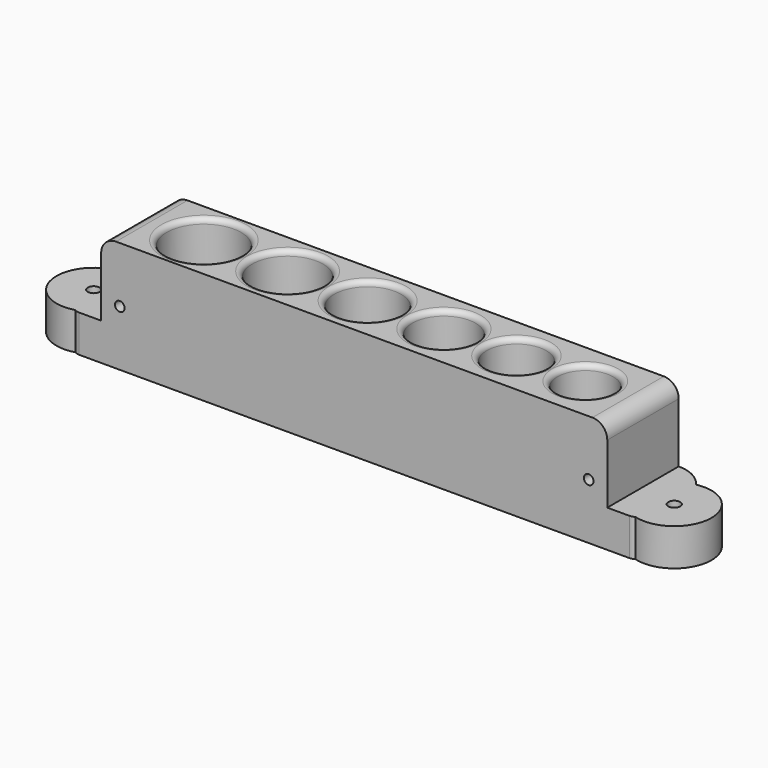
from build123d import *

# Parameters (mm, degrees)
CYLINDER016_R     = 1.3
CYLINDER016_DEPTH = 25
CYLINDER015_R     = 1.3
CYLINDER015_DEPTH = 25
CYLINDER001_R     = 9.5
CYLINDER001_DEPTH = 30
FILLET002_R       = 9.4
CYLINDER002_R     = 9
CYLINDER002_DEPTH = 30
FILLET003_R       = 8.9
CYLINDER003_R     = 8.5
CYLINDER003_DEPTH = 30
FILLET004_R       = 8.4
CYLINDER004_R     = 8
CYLINDER004_DEPTH = 30
FILLET005_R       = 7.9
CYLINDER005_R     = 7.5
CYLINDER005_DEPTH = 30
FILLET006_R       = 7.4
CYLINDER_R        = 10
CYLINDER_DEPTH    = 30
FILLET_R          = 9.9
BOX_W             = 136
BOX_H             = 24
BOX_DEPTH         = 30
FILLET022_R       = 4
FILLET023_R       = 1.4
BOX001_W          = 10
BOX001_H          = 24
BOX001_DEPTH      = 10
FILLET016_R       = 2
CHAMFER_SIZE      = 4
FILLET017_R       = 2
FILLET018_R       = 10
BOX002_W          = 10
BOX002_H          = 24
BOX002_DEPTH      = 10
FILLET019_R       = 2
CHAMFER001_SIZE   = 4
FILLET020_R       = 2
FILLET021_R       = 10
TUBE001_R         = 10
TUBE001_R_2       = 1.6
TUBE001_DEPTH     = 10
TUBE_R            = 10
TUBE_R_2          = 1.6
TUBE_DEPTH        = 10
CHAMFER007_SIZE   = 2


with BuildPart() as obj1:
    # Cylinder016 → Cylinder016 (new body)
    with BuildSketch(Plane(origin=(113, -20, 15), x_dir=(1, 0, 0), z_dir=(0, 1, 0))):
        Circle(CYLINDER016_R)
    extrude(amount=CYLINDER016_DEPTH)


with BuildPart() as fusion003:
    # Cylinder015 → Cylinder015 (new body)
    with BuildSketch(Plane(origin=(-13, -20, 15), x_dir=(1, 0, 0), z_dir=(0, 1, 0))):
        Circle(CYLINDER015_R)
    extrude(amount=CYLINDER015_DEPTH)

    # Fusion003: union obj1
    add(obj1.part)


with BuildPart() as fillet002:
    # Cylinder001 → Cylinder001 (new body)
    with BuildSketch(Plane(origin=(22.5, 0, 2), x_dir=(1, 0, 0), z_dir=(0, 0, 1))):
        Circle(CYLINDER001_R)
    extrude(amount=CYLINDER001_DEPTH)

    # Fillet002
    fillet002_edges = [fillet002.edges().sort_by_distance(p)[0] for p in [
        (13, 0, 2),
    ]]
    fillet(fillet002_edges, radius=FILLET002_R)


with BuildPart() as fillet003:
    # Cylinder002 → Cylinder002 (new body)
    with BuildSketch(Plane(origin=(44, 0, 2), x_dir=(1, 0, 0), z_dir=(0, 0, 1))):
        Circle(CYLINDER002_R)
    extrude(amount=CYLINDER002_DEPTH)

    # Fillet003
    fillet003_edges = [fillet003.edges().sort_by_distance(p)[0] for p in [
        (35, 0, 2),
    ]]
    fillet(fillet003_edges, radius=FILLET003_R)


with BuildPart() as fillet004:
    # Cylinder003 → Cylinder003 (new body)
    with BuildSketch(Plane(origin=(64.5, 0, 2), x_dir=(1, 0, 0), z_dir=(0, 0, 1))):
        Circle(CYLINDER003_R)
    extrude(amount=CYLINDER003_DEPTH)

    # Fillet004
    fillet004_edges = [fillet004.edges().sort_by_distance(p)[0] for p in [
        (56, 0, 2),
    ]]
    fillet(fillet004_edges, radius=FILLET004_R)


with BuildPart() as fillet005:
    # Cylinder004 → Cylinder004 (new body)
    with BuildSketch(Plane(origin=(84, 0, 2), x_dir=(1, 0, 0), z_dir=(0, 0, 1))):
        Circle(CYLINDER004_R)
    extrude(amount=CYLINDER004_DEPTH)

    # Fillet005
    fillet005_edges = [fillet005.edges().sort_by_distance(p)[0] for p in [
        (76, 0, 2),
    ]]
    fillet(fillet005_edges, radius=FILLET005_R)


with BuildPart() as fillet006:
    # Cylinder005 → Cylinder005 (new body)
    with BuildSketch(Plane(origin=(102.5, 0, 2), x_dir=(1, 0, 0), z_dir=(0, 0, 1))):
        Circle(CYLINDER005_R)
    extrude(amount=CYLINDER005_DEPTH)

    # Fillet006
    fillet006_edges = [fillet006.edges().sort_by_distance(p)[0] for p in [
        (95, 0, 2),
    ]]
    fillet(fillet006_edges, radius=FILLET006_R)


with BuildPart() as fusion:
    # Cylinder → Cylinder (new body)
    with BuildSketch(Plane.XY.offset(2)):
        Circle(CYLINDER_R)
    extrude(amount=CYLINDER_DEPTH)

    # Fillet
    fillet_edges = [fusion.edges().sort_by_distance(p)[0] for p in [
        (-10, 0, 2),
    ]]
    fillet(fillet_edges, radius=FILLET_R)

    # Fusion: union Fillet002, Fillet003, Fillet004, Fillet005, Fillet006
    add(fillet002.part)
    add(fillet003.part)
    add(fillet004.part)
    add(fillet005.part)
    add(fillet006.part)


with BuildPart() as cut001:
    # Box → Box (new body)
    with BuildSketch(Plane(origin=(-18, -12, 0), x_dir=(1, 0, 0), z_dir=(0, 0, 1))):
        with Locations((68, 12)):
            Rectangle(BOX_W, BOX_H)
    extrude(amount=BOX_DEPTH)

    # Cut: cut Fusion
    add(fusion.part, mode=Mode.SUBTRACT)

    # Fillet022
    fillet022_edges = [cut001.edges().sort_by_distance(p)[0] for p in [
        (-18, 0, 30),
        (118, 0, 30),
    ]]
    fillet(fillet022_edges, radius=FILLET022_R)

    # Fillet023
    fillet023_edges = [cut001.edges().sort_by_distance(p)[0] for p in [
        (-10, 0, 30),
        (13, 0, 30),
        (35, 0, 30),
        (56, 0, 30),
        (76, 0, 30),
        (95, 0, 30),
    ]]
    fillet(fillet023_edges, radius=FILLET023_R)

    # Cut001: cut Fusion003
    add(fusion003.part, mode=Mode.SUBTRACT)


with BuildPart() as fillet018:
    # Box001 → Box001 (new body)
    with BuildSketch(Plane(origin=(-26, -12, 0), x_dir=(1, 0, 0), z_dir=(0, 0, 1))):
        with Locations((5, 12)):
            Rectangle(BOX001_W, BOX001_H)
    extrude(amount=BOX001_DEPTH)

    # Fillet016
    fillet016_edges = [fillet018.edges().sort_by_distance(p)[0] for p in [
        (-26, -12, 5),
    ]]
    fillet(fillet016_edges, radius=FILLET016_R)

    # Chamfer
    chamfer_edges = [fillet018.edges().sort_by_distance(p)[0] for p in [
        (-26, 12, 5),
    ]]
    chamfer(chamfer_edges, length=CHAMFER_SIZE)

    # Fillet017
    fillet017_edges = [fillet018.edges().sort_by_distance(p)[0] for p in [
        (-26, 8, 5),
    ]]
    fillet(fillet017_edges, radius=FILLET017_R)

    # Fillet018
    fillet018_edges = [fillet018.edges().sort_by_distance(p)[0] for p in [
        (-22, 12, 5),
    ]]
    fillet(fillet018_edges, radius=FILLET018_R)


with BuildPart() as fillet021:
    # Box002 → Box002 (new body)
    with BuildSketch(Plane(origin=(116, -12, 0), x_dir=(1, 0, 0), z_dir=(0, 0, 1))):
        with Locations((5, 12)):
            Rectangle(BOX002_W, BOX002_H)
    extrude(amount=BOX002_DEPTH)

    # Fillet019
    fillet019_edges = [fillet021.edges().sort_by_distance(p)[0] for p in [
        (126, -12, 5),
    ]]
    fillet(fillet019_edges, radius=FILLET019_R)

    # Chamfer001
    chamfer001_edges = [fillet021.edges().sort_by_distance(p)[0] for p in [
        (126, 12, 5),
    ]]
    chamfer(chamfer001_edges, length=CHAMFER001_SIZE)

    # Fillet020
    fillet020_edges = [fillet021.edges().sort_by_distance(p)[0] for p in [
        (126, 8, 5),
    ]]
    fillet(fillet020_edges, radius=FILLET020_R)

    # Fillet021
    fillet021_edges = [fillet021.edges().sort_by_distance(p)[0] for p in [
        (122, 12, 5),
    ]]
    fillet(fillet021_edges, radius=FILLET021_R)


with BuildPart() as tube001:
    # Tube001 → Tube001 (new body)
    with BuildSketch(Plane(origin=(128, -2, 0), x_dir=(1, 0, 0), z_dir=(0, 0, 1))):
        Circle(TUBE001_R)
        Circle(TUBE001_R_2, mode=Mode.SUBTRACT)
    extrude(amount=TUBE001_DEPTH)


with BuildPart() as obj2:
    # Tube → Tube (new body)
    with BuildSketch(Plane(origin=(-28, -2, 0), x_dir=(1, 0, 0), z_dir=(0, 0, 1))):
        Circle(TUBE_R)
        Circle(TUBE_R_2, mode=Mode.SUBTRACT)
    extrude(amount=TUBE_DEPTH)

    # Fusion002: union Fillet018, Fillet021, Tube001
    add(fillet018.part)
    add(fillet021.part)
    add(tube001.part)

    # Chamfer007
    chamfer007_edges = [obj2.edges().sort_by_distance(p)[0] for p in [
        (-29.6, -2, 0),
        (126.4, -2, 0),
    ]]
    chamfer(chamfer007_edges, length=CHAMFER007_SIZE)

    # Fusion013: union Cut001
    add(cut001.part)


with BuildPart() as obj2_1:
    # Fusion013 placement: moved
    add(obj2.part.moved(Location((-156, -13, 0))))


solid = obj2_1.part
